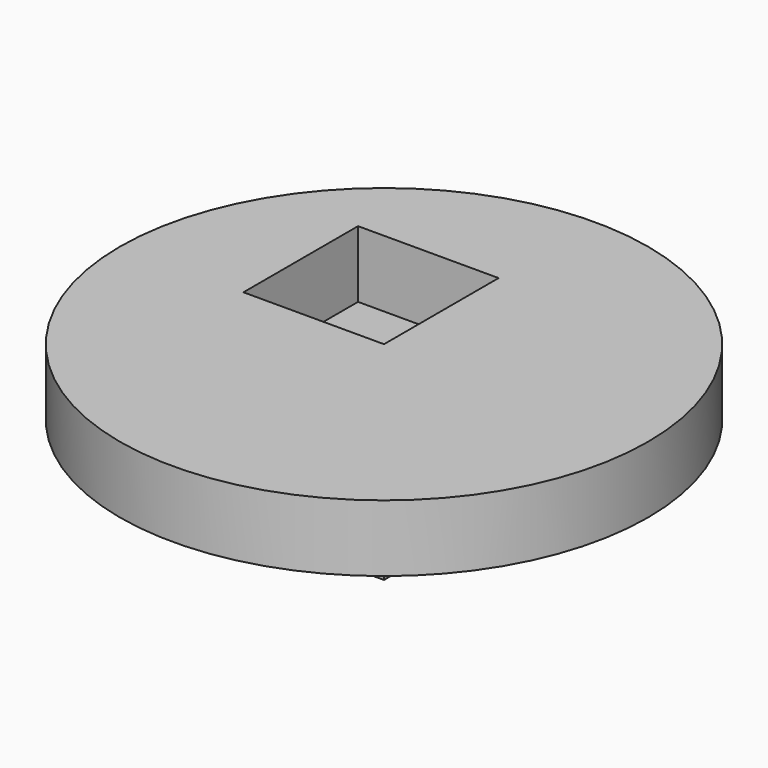
from build123d import *

# Parameters (mm, degrees)
F0_W     = 75.5055472255
F0_H     = 76.9438669086
F1_DEPTH = 75.692
F2_R     = 141.8785482935
F2_W     = 75.5055472255
F2_H     = 76.9438669086
F3_DEPTH = 35.814
F4_W     = 74.154779315
F4_H     = 76.2271508574
F5_DEPTH = 25.4


with BuildPart() as f1:
    # F0 (on Top) → F1 (new body)
    with BuildSketch(Plane.XY):
        with Locations((-37.7527736127, 38.4719334543)):
            Rectangle(F0_W, F0_H)
    extrude(amount=-F1_DEPTH)



with BuildPart() as f3:
    # F2 (on face) → F3 (new body)
    with BuildSketch(Plane.XY):
        Circle(F2_R)
        with Locations((-37.7527736127, 38.4719334543)):
            Rectangle(F2_W, F2_H, mode=Mode.SUBTRACT)
    extrude(amount=F3_DEPTH)


with BuildPart() as f1_1:
    add(f1.part)

    add(f3.part)  # F5 merges F3
    # F4 (on face) → F5 (join)
    with BuildSketch(Plane(origin=(0, 0, 0), x_dir=(1, 0, 0), z_dir=(0, 0, -1))):
        Polygon((-75.5055472255, 0), (0, 0), (0, 76.2271508574), (-75.5516588688, 76.2271508574), (-75.5516588688, 0), align=None)
        with Locations((37.0773896575, 38.1135754287)):
            Rectangle(F4_W, F4_H)
    extrude(amount=-F5_DEPTH)


solid = f1_1.part
